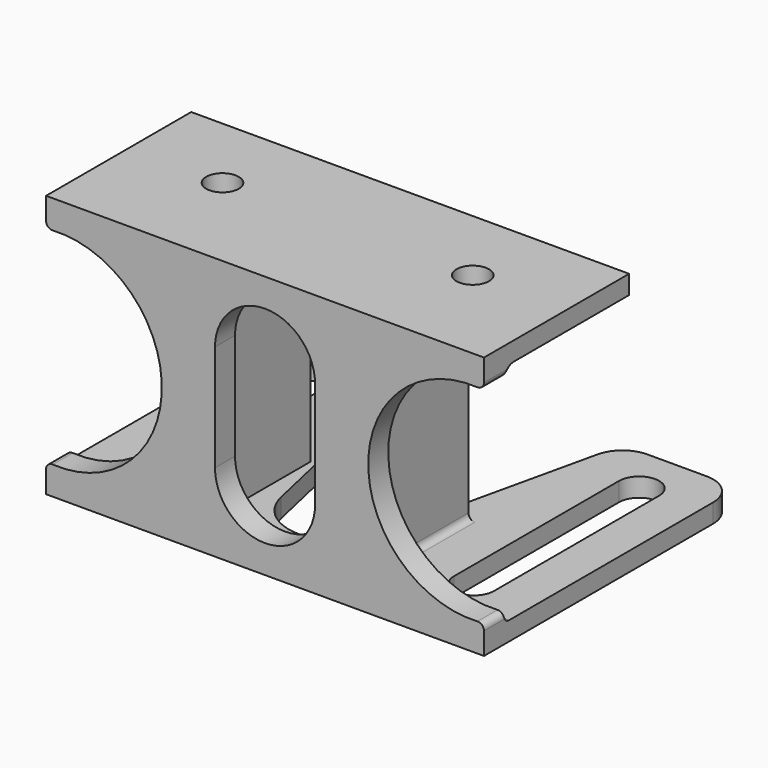
from build123d import *

# Parameters (mm, degrees)
PAD_DEPTH       = 35
SKETCH001_R     = 16.5
POCKET_DEPTH    = 5
POCKET001_DEPTH = 5
FILLET_R        = 1
FILLET001_R     = 5
SKETCH003_R     = 2.6
POCKET002_DEPTH = 5
SKETCH004_W     = 36
SKETCH004_H     = 3
PAD001_DEPTH    = 19
FILLET002_R     = 2
FILLET003_R     = 2
FILLET004_R     = 1


with BuildPart() as part:
    # Sketch → Pad (new body, symmetric)
    with BuildSketch(Plane.YZ):
        Polygon((34.3, -18), (34.3, -21), (-16.5, -21), (-16.5, 21), (12.5, 21), (12.5, 18), (-12.5, 18), (-12.5, -18), align=None)
    extrude(amount=PAD_DEPTH, both=True)

    # Sketch001 (on Face3 of Pad) → Pocket (cut)
    with BuildSketch(Plane(origin=(0, -16.5, 0), x_dir=(0, 0, -1), z_dir=(0, -1, 0))):
        with Locations((0, 33)):
            Circle(SKETCH001_R)
        with Locations((0, -33)):
            Circle(SKETCH001_R)
        with BuildLine():
            ThreePointArc((-8.5, 8), (-16.5, 0), (-8.5, -8))
            Line((-8.5, -8), (8.5, -8))
            ThreePointArc((8.5, -8), (16.5, 0), (8.5, 8))
            Line((-8.5, 8), (8.5, 8))
        make_face()
    extrude(amount=-POCKET_DEPTH, mode=Mode.SUBTRACT)

    # Sketch002 (on Face3 of Pocket) → Pocket001 (cut)
    with BuildSketch(Plane.YX.offset(21)):
        with BuildLine():
            ThreePointArc((-6.5, -22.2), (-9.7, -25.4), (-6.5, -28.6))
            Line((-6.5, -28.6), (26.5, -28.6))
            ThreePointArc((26.5, -28.6), (29.7, -25.4), (26.5, -22.2))
            Line((-6.5, -22.2), (26.5, -22.2))
        make_face()
        with BuildLine():
            ThreePointArc((-6.5, 28.6), (-9.7, 25.4), (-6.5, 22.2))
            Line((-6.5, 22.2), (26.5, 22.2))
            ThreePointArc((26.5, 22.2), (29.7, 25.4), (26.5, 28.6))
            Line((-6.5, 28.6), (26.5, 28.6))
        make_face()
        with BuildLine():
            ThreePointArc((-3.306398, 8), (-9.7, 0), (-3.306398, -8))
            Line((-3.306398, -8), (34.3, -16.5))
            ThreePointArc((34.3, -16.5), (54.94564, 0), (34.3, 16.5))
            Line((-3.306398, 8), (34.3, 16.5))
        make_face()
    extrude(amount=-POCKET001_DEPTH, mode=Mode.SUBTRACT)

    # Fillet
    fillet_edges = [part.edges().sort_by_distance(p)[0] for p in [
        (35, -14.5, 16.378339),
        (-35, -14.5, 16.378339),
        (-35, -14.5, -16.378339),
        (35, -14.5, -16.378339),
    ]]
    fillet(fillet_edges, radius=FILLET_R)

    # Fillet001
    fillet001_edges = [part.edges().sort_by_distance(p)[0] for p in [
        (35, 34.3, -19.5),
        (16.5, 34.3, -19.5),
        (-16.5, 34.3, -19.5),
        (-35, 34.3, -19.5),
    ]]
    fillet(fillet001_edges, radius=FILLET001_R)

    # Sketch003 (on Face39 of Fillet001) → Pocket002 (cut)
    with BuildSketch(Plane(origin=(0, 0, 21), x_dir=(0, -1, 0), z_dir=(0, 0, 1))):
        with Locations((0, 20)):
            Circle(SKETCH003_R)
        with Locations((0, -20)):
            Circle(SKETCH003_R)
    extrude(amount=-POCKET002_DEPTH, mode=Mode.SUBTRACT)

    # Sketch004 (on Face4 of Pocket002) → Pad001 (join)
    with BuildSketch(Plane.ZX.offset(-12.5)):
        with Locations((0, -12.619025)):
            Rectangle(SKETCH004_W, SKETCH004_H)
        with Locations((0, 12.619025)):
            Rectangle(SKETCH004_W, SKETCH004_H)
    extrude(amount=PAD001_DEPTH)

    # Fillet002
    fillet002_edges = [part.edges().sort_by_distance(p)[0] for p in [
        (14.119025, -12.5, 0),
        (-11.119025, -12.5, 0),
        (11.119025, -12.5, 0),
        (-14.119025, -12.5, 0),
    ]]
    fillet(fillet002_edges, radius=FILLET002_R)

    # Fillet003
    fillet003_edges = [part.edges().sort_by_distance(p)[0] for p in [
        (-25.559513, -12.5, 18),
        (0, -12.5, 18),
        (25.559513, -12.5, 18),
    ]]
    fillet(fillet003_edges, radius=FILLET003_R)

    # Fillet004
    fillet004_edges = [part.edges().sort_by_distance(p)[0] for p in [
        (25.559513, -12.5, -18),
        (-25.559513, -12.5, -18),
    ]]
    fillet(fillet004_edges, radius=FILLET004_R)


solid = part.part
